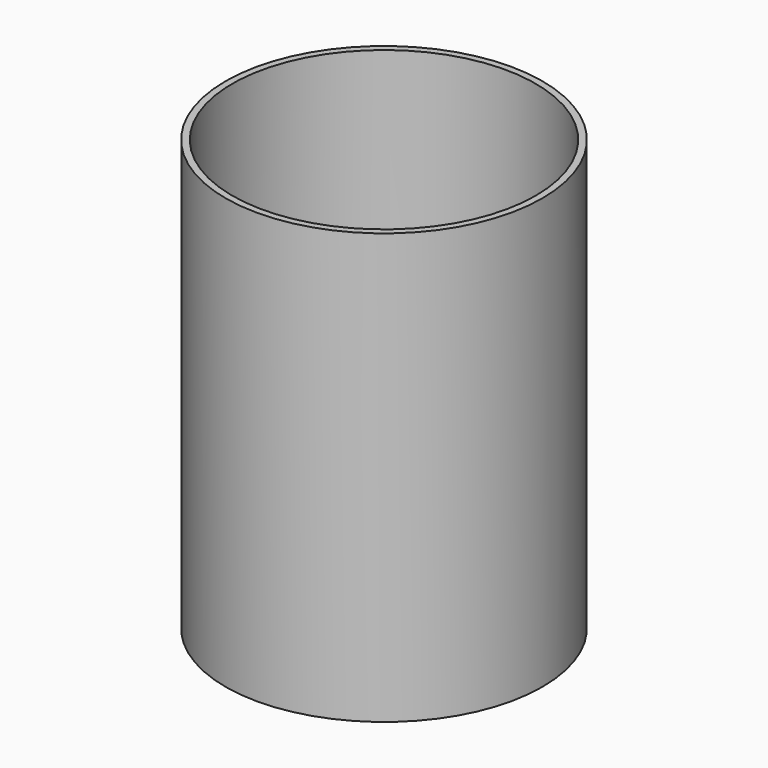
from build123d import *

# Parameters (mm, degrees)
F0_R     = 35
F1_DEPTH = 95
F2_T     = -1.5
F3_R     = 35
F4_DEPTH = 1.5


with BuildPart() as f1:
    # F0 (on Top) → F1 (new body)
    with BuildSketch(Plane.XY):
        Circle(F0_R)
    extrude(amount=F1_DEPTH)

    # F2
    f2_openings = [f1.faces().sort_by_distance(p)[0] for p in [
        (0, 0, 95),
    ]]
    offset(amount=F2_T, openings=f2_openings)

    # F3 (on Top) → F4 (join)
    with BuildSketch(Plane.XY):
        Circle(F3_R)
    extrude(amount=F4_DEPTH)


solid = f1.part
